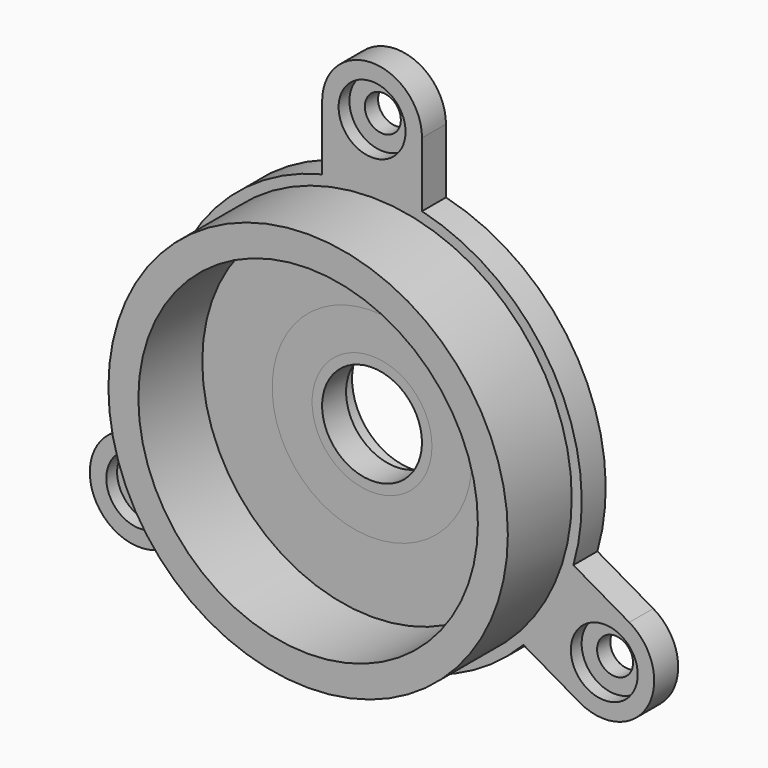
from build123d import *

# Parameters (mm, degrees)
F0_R     = 3.35
F0_R_2   = 20
F0_R_3   = 17
F0_R_4   = 10
F1_DEPTH = 3
F0_R_5   = 6
F0_R_6   = 5
F2_DEPTH = 11
F0_R_7   = 1.8
F3_DEPTH = 1.65
F4_DEPTH = 2
F5_DEPTH = 3


with BuildPart() as f1:
    # F0 (on Front) → F1 (new body)
    with BuildSketch(Plane.XZ):
        with BuildLine():
            Line((-4.9966446176, 26.8572020554), (-4.9966446176, 20.3969003176))
            ThreePointArc((-4.9966446176, 20.3969003176), (-18.1848058662, 10.5029917456), (-20.1644868163, -5.8645947376))
            Line((-20.1644868163, -5.8645947376), (-25.7606969458, -9.0955681624))
            ThreePointArc((-25.7606969458, -9.0955681624), (-27.5908239647, -15.9256951813), (-20.7606969458, -17.7558222002))
            Line((-20.7606969458, -17.7558222002), (-15.1659115247, -14.5256713313))
            ThreePointArc((-15.1659115247, -14.5256713313), (-0.0034547343, -20.9999997158), (15.1611314338, -14.5306604683))
            Line((15.1611314338, -14.5306604683), (20.7573415633, -17.7616338931))
            ThreePointArc((20.7573415633, -17.7616338931), (27.5874685823, -15.9315068741), (25.7573415633, -9.1013798552))
            Line((25.7573415633, -9.1013798552), (20.1625561423, -5.8712289863))
            ThreePointArc((20.1625561423, -5.8712289863), (18.1882606005, 10.4970079702), (5.0033553824, 20.395255206))
            Line((5.0033553824, 20.395255206), (5.0033553824, 26.8572020554))
            ThreePointArc((5.0033553824, 26.8572020554), (0.0033553824, 31.8572020554), (-4.9966446176, 26.8572020554))
        make_face()
        with Locations((-23.2606969458, -13.4256951813)):
            Circle(F0_R, mode=Mode.SUBTRACT)
        with Locations((23.2573415633, -13.4315068741)):
            Circle(F0_R, mode=Mode.SUBTRACT)
        Circle(F0_R_2, mode=Mode.SUBTRACT)
        with Locations((0.0033553824, 26.8572020554)):
            Circle(F0_R, mode=Mode.SUBTRACT)
        Circle(F0_R_2)
        Circle(F0_R_3, mode=Mode.SUBTRACT)
        Circle(F0_R_3)
        Circle(F0_R_4, mode=Mode.SUBTRACT)
    extrude(amount=F1_DEPTH)

    # F0 (on Front) → F2 (join)
    with BuildSketch(Plane.XZ):
        Circle(F0_R_2)
        Circle(F0_R_3, mode=Mode.SUBTRACT)
    extrude(amount=F2_DEPTH)

    # F0 (on Front) → F3 (join)
    with BuildSketch(Plane.XZ):
        with Locations((0.0033553824, 26.8572020554)):
            Circle(F0_R)
        with Locations((0.0033553824, 26.8572020554)):
            Circle(F0_R_7, mode=Mode.SUBTRACT)
        with Locations((23.2573415633, -13.4315068741)):
            Circle(F0_R)
        with Locations((23.2573415633, -13.4315068741)):
            Circle(F0_R_7, mode=Mode.SUBTRACT)
        with Locations((-23.2606969458, -13.4256951813)):
            Circle(F0_R)
        with Locations((-23.2606969458, -13.4256951813)):
            Circle(F0_R_7, mode=Mode.SUBTRACT)
    extrude(amount=F3_DEPTH)


with BuildPart() as f1b:
    # F0 (on Front) → F1, piece 2 (new body)
    with BuildSketch(Plane.XZ):
        Circle(F0_R_5)
        Circle(F0_R_6, mode=Mode.SUBTRACT)
    extrude(amount=F1_DEPTH)


with BuildPart() as f4:
    # F0 (on Front) → F4 (new body)
    with BuildSketch(Plane.XZ):
        Circle(F0_R_4)
        Circle(F0_R_5, mode=Mode.SUBTRACT)
    extrude(amount=-F4_DEPTH)


with BuildPart() as f5:
    # F5 (new): a face of the model
    f5_faces = [f4.part.faces().sort_by_distance(p)[0] for p in [
        (-9.7171572875, 0, 0),
    ]]
    extrude(f5_faces, amount=F5_DEPTH)


solid = Compound([f1.part, f1b.part, f4.part, f5.part])
